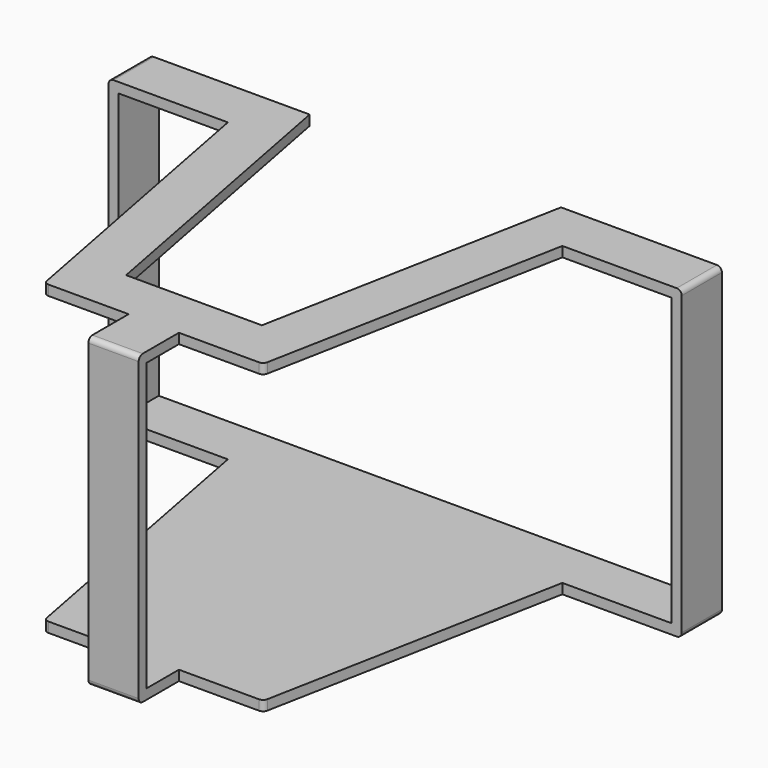
from build123d import *

# Parameters (mm, degrees)
SKETCH_W        = 114
SKETCH_H        = 80
PAD_DEPTH       = 61
SKETCH001_W     = 110
SKETCH001_H     = 57
POCKET_DEPTH    = 78
POCKET001_DEPTH = 2
POCKET002_DEPTH = 90
SKETCH004_W     = 30
SKETCH004_H     = 6
PAD001_DEPTH    = 2
SKETCH005_W     = 30
SKETCH005_H     = 2
PAD002_DEPTH    = 30
FILLET_R        = 1
FILLET001_R     = 1
FILLET002_R     = 1
FILLET003_R     = 1
FILLET004_R     = 1
FILLET005_R     = 0.5
FILLET006_R     = 1
FILLET007_R     = 1
FILLET008_R     = 1
FILLET009_R     = 1
FILLET010_R     = 1


with BuildPart() as part:
    # Sketch → Pad (new body)
    with BuildSketch(Plane.XY):
        with Locations((57, 40)):
            Rectangle(SKETCH_W, SKETCH_H)
    extrude(amount=PAD_DEPTH)

    # Sketch001 (on Face1 of Pad) → Pocket (cut)
    with BuildSketch(Plane(origin=(0, 80, 0), x_dir=(-1, 0, 0), z_dir=(0, 1, 0))):
        with Locations((-57, 30.5)):
            Rectangle(SKETCH001_W, SKETCH001_H)
    extrude(amount=-POCKET_DEPTH, mode=Mode.SUBTRACT)

    # Sketch002 (on Face4 of Pocket) → Pocket001 (cut)
    with BuildSketch(Plane.XY.offset(61)):
        Polygon((32, 80), (43.5, 20), (70.5, 20), (82, 80), align=None)
    extrude(amount=-POCKET001_DEPTH, mode=Mode.SUBTRACT)

    # Sketch003 (on Face4 of Pocket001) → Pocket002 (cut)
    with BuildSketch(Plane.XY.offset(61)):
        Polygon((0, 70), (23.734643, 70), (35.234643, 10), (52, 10), (52, 0), (0, 0), align=None)
        Polygon((78.765357, 10), (90.265357, 70), (114, 70), (114, 0), (62, 0), (62, 10), align=None)
    extrude(amount=-POCKET002_DEPTH, mode=Mode.SUBTRACT)

    # Sketch004 (on Face1 of Pocket002) → Pad001 (join)
    with BuildSketch(Plane(origin=(0, 80, 0), x_dir=(-1, 0, 0), z_dir=(0, 1, 0))):
        with Locations((-57, -3)):
            Rectangle(SKETCH004_W, SKETCH004_H)
    extrude(amount=-PAD001_DEPTH)

    # Sketch005 (on Face23 of Pad001) → Pad002 (join)
    with BuildSketch(Plane.XZ.offset(-78)):
        with Locations((57, -5)):
            Rectangle(SKETCH005_W, SKETCH005_H)
    extrude(amount=PAD002_DEPTH)

    # Fillet
    fillet_edges = [part.edges().sort_by_distance(p)[0] for p in [
        (78.765357, 10, 1),
    ]]
    fillet(fillet_edges, radius=FILLET_R)

    # Fillet001
    fillet001_edges = [part.edges().sort_by_distance(p)[0] for p in [
        (114, 75, 0),
    ]]
    fillet(fillet001_edges, radius=FILLET001_R)

    # Fillet002
    fillet002_edges = [part.edges().sort_by_distance(p)[0] for p in [
        (114, 75, 61),
    ]]
    fillet(fillet002_edges, radius=FILLET002_R)

    # Fillet003
    fillet003_edges = [part.edges().sort_by_distance(p)[0] for p in [
        (57, 80, -6),
    ]]
    fillet(fillet003_edges, radius=FILLET003_R)

    # Fillet004
    fillet004_edges = [part.edges().sort_by_distance(p)[0] for p in [
        (57, 48, -6),
    ]]
    fillet(fillet004_edges, radius=FILLET004_R)

    # Fillet005
    fillet005_edges = [part.edges().sort_by_distance(p)[0] for p in [
        (57, 48, -4),
    ]]
    fillet(fillet005_edges, radius=FILLET005_R)

    # Fillet006
    fillet006_edges = [part.edges().sort_by_distance(p)[0] for p in [
        (0, 75, 0),
    ]]
    fillet(fillet006_edges, radius=FILLET006_R)

    # Fillet007
    fillet007_edges = [part.edges().sort_by_distance(p)[0] for p in [
        (0, 75, 61),
    ]]
    fillet(fillet007_edges, radius=FILLET007_R)

    # Fillet008
    fillet008_edges = [part.edges().sort_by_distance(p)[0] for p in [
        (78.765357, 10, 60),
        (35.234643, 10, 60),
    ]]
    fillet(fillet008_edges, radius=FILLET008_R)

    # Fillet009
    fillet009_edges = [part.edges().sort_by_distance(p)[0] for p in [
        (57, 0, 61),
        (57, 0, 0),
    ]]
    fillet(fillet009_edges, radius=FILLET009_R)

    # Fillet010
    fillet010_edges = [part.edges().sort_by_distance(p)[0] for p in [
        (35.234643, 10, 1),
    ]]
    fillet(fillet010_edges, radius=FILLET010_R)


solid = part.part
